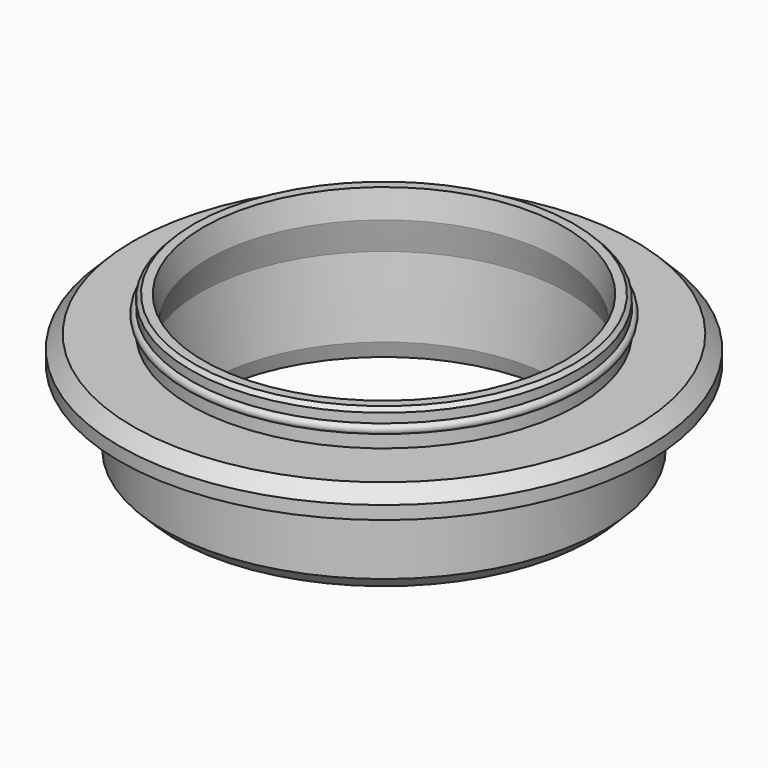
from build123d import *


with BuildPart() as f1:
    # F0 (on Front) → F1 (revolve)
    with BuildSketch(Plane.XZ):
        with BuildLine():
            Line((-23.5, 0), (-20.53616, 0))
            Line((-20.53616, 0), (-20, 1.783461))
            Line((-20, 1.783461), (-20.832418, 10.402767))
            Line((-20.832418, 10.402767), (-20, 13.996847))
            Line((-20, 13.996847), (-20.519255, 17))
            Line((-20.519255, 17), (-21.558487, 17))
            Line((-21.558487, 17), (-22, 16.558487))
            Line((-22, 16.558487), (-22, 15.5))
            ThreePointArc((-22, 15.5), (-22.5, 15), (-22, 14.5))
            Line((-22, 14.5), (-22, 13))
            Line((-22, 13), (-28.5, 13))
            Line((-28.5, 13), (-30, 11.5))
            Line((-30, 11.5), (-30, 10))
            Line((-30, 10), (-25, 10))
            Line((-25, 10), (-25, 1.5))
            Line((-25, 1.5), (-23.5, 0))
        make_face()
    revolve(axis=Axis((0, 0, 21.225085), (0, 0, 1)))


solid = f1.part
